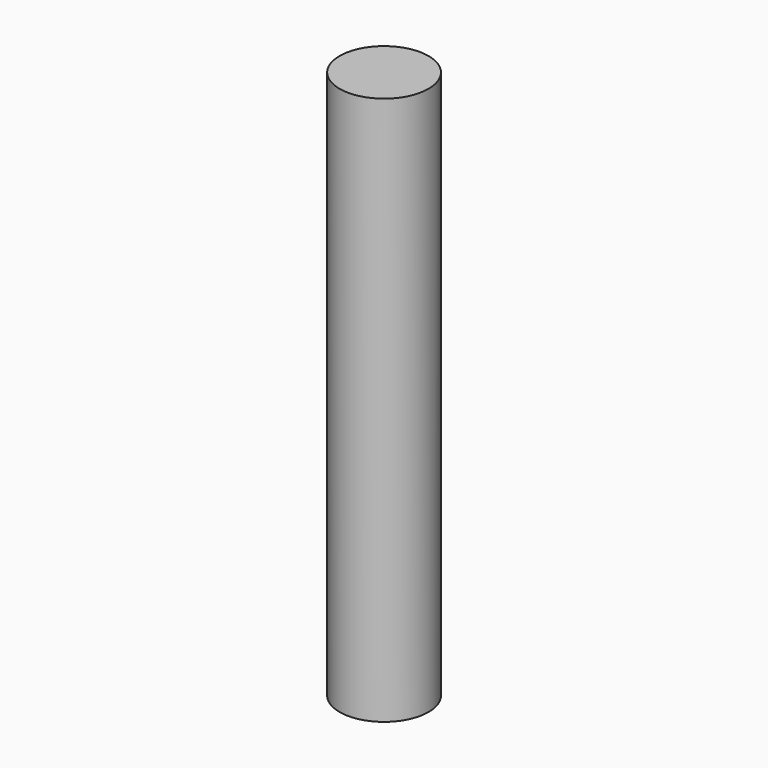
from build123d import *

# Parameters (mm, degrees)
SKETCH_R  = 6
PAD_DEPTH = 74


with BuildPart() as part:
    # Sketch → Pad (new body)
    with BuildSketch(Plane.XY):
        Circle(SKETCH_R)
    extrude(amount=PAD_DEPTH)


solid = part.part
